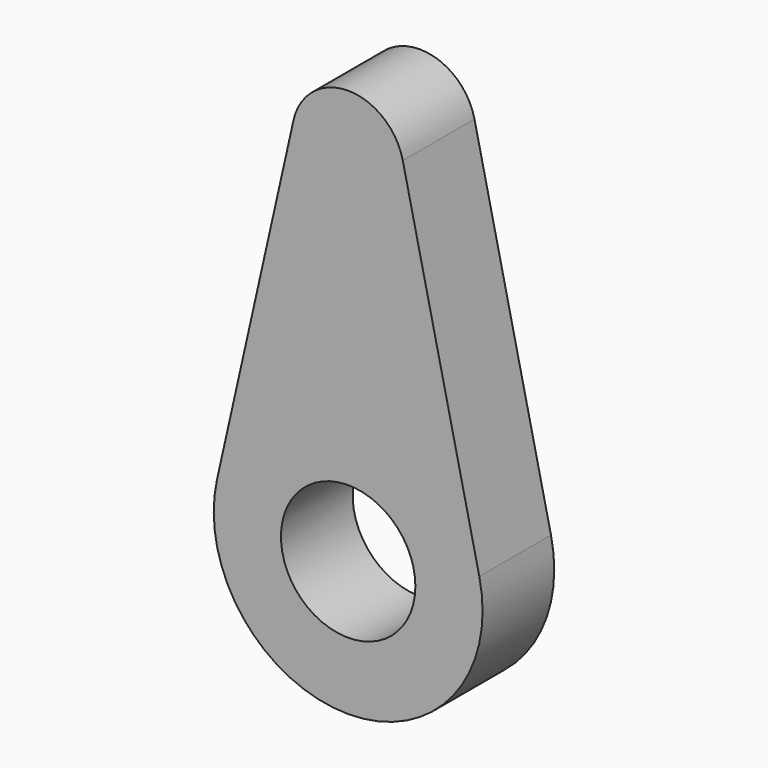
from build123d import *

# Parameters (mm, degrees)
F0_R     = 15
F1_DEPTH = 10


with BuildPart() as f1:
    # F0 (on Front) → F1 (new body, symmetric)
    with BuildSketch(Plane.XZ):
        with BuildLine():
            Line((-12.197262, 42.734375), (-29.273428, -33.4375))
            ThreePointArc((-29.273428, -33.4375), (0, -70), (29.273428, -33.4375))
            Line((29.273428, -33.4375), (12.197262, 42.734375))
            ThreePointArc((12.197262, 42.734375), (0, 52.5), (-12.197262, 42.734375))
        make_face()
        with Locations((0, -40)):
            Circle(F0_R, mode=Mode.SUBTRACT)
    extrude(amount=F1_DEPTH, both=True)


solid = f1.part
